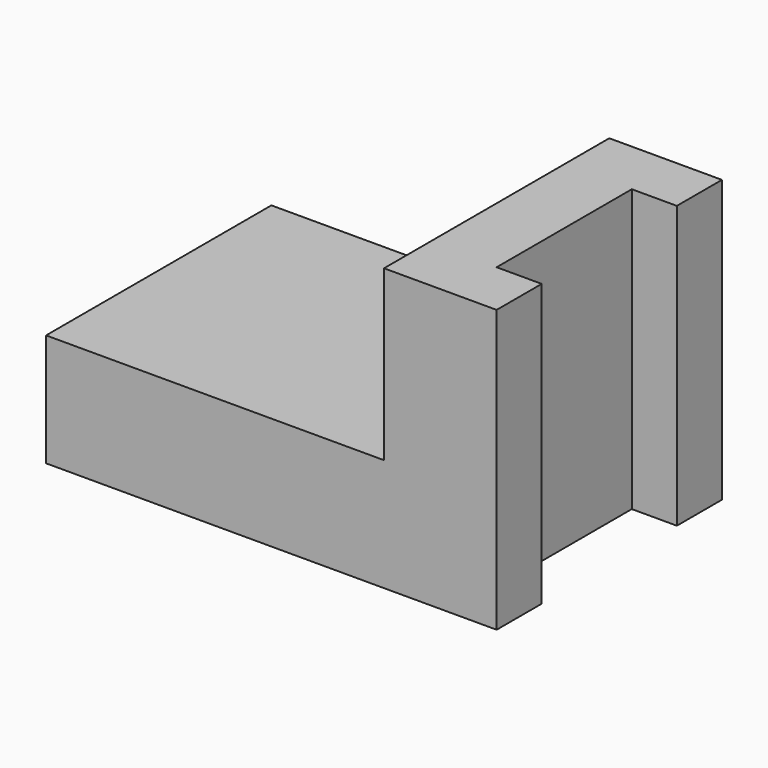
from build123d import *

# Parameters (mm, degrees)
F0_W     = 60
F0_H     = 50
F1_DEPTH = 20
F2_DEPTH = 50


with BuildPart() as f1:
    # F0 (on Top) → F1 (new body)
    with BuildSketch(Plane.XY):
        with Locations((-3.552207, 0.483783)):
            Rectangle(F0_W, F0_H)
    extrude(amount=F1_DEPTH)

    # F0 (on Top) → F2 (join)
    with BuildSketch(Plane.XY):
        Polygon((46.447793, 25.483783), (26.447793, 25.483783), (26.447793, -24.516217), (46.447793, -24.516217), (46.447793, -14.516217), (38.447793, -14.516217), (38.447793, 15.483783), (46.447793, 15.483783), align=None)
    extrude(amount=F2_DEPTH)


solid = f1.part
